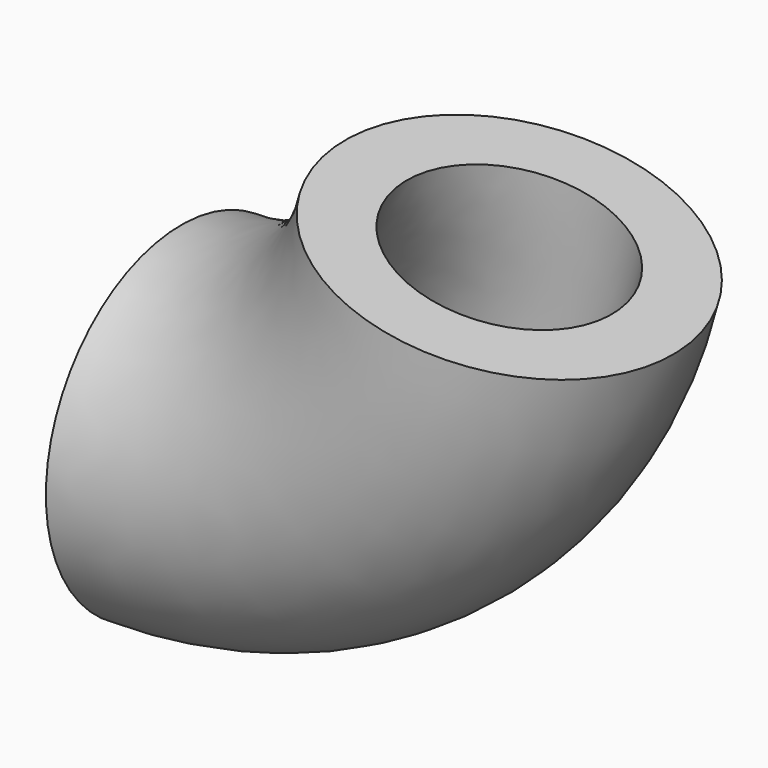
from build123d import *

# Parameters (mm, degrees)
F1_R   = 12.7
F1_R_2 = 7.9375


with BuildPart() as f2:
    # F2: sweep along a path in F0
    with BuildLine(Plane.XZ) as f2_path:
        ThreePointArc((0, 0), (15.6314701188, 5.3795818744), (24.6416195037, 19.2395951241))
    # F1 (on Right) → F2 (sweep)
    with BuildSketch(Plane.YZ):
        Circle(F1_R)
        Circle(F1_R_2, mode=Mode.SUBTRACT)
    sweep(path=f2_path.line)


solid = f2.part
